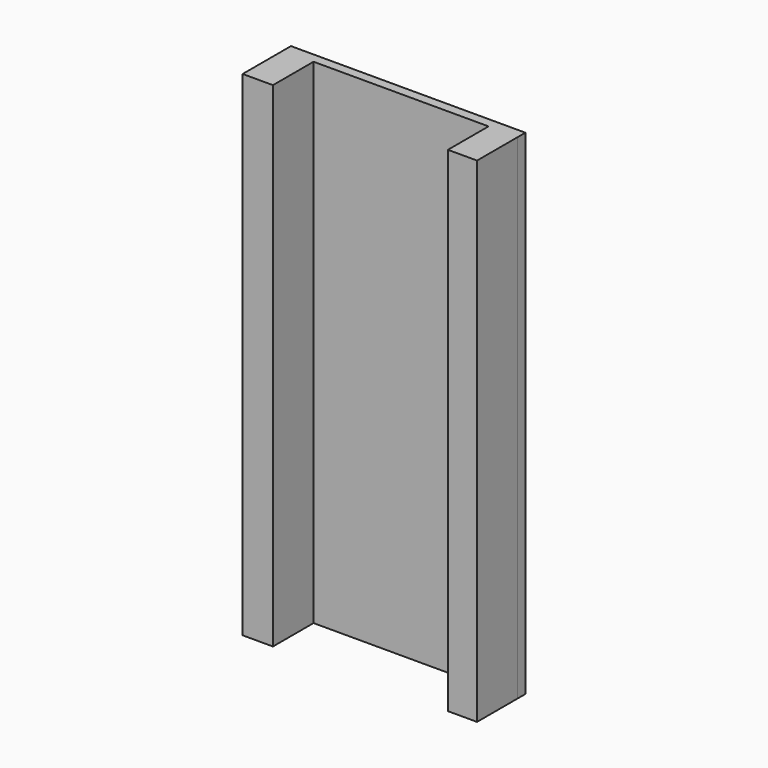
from build123d import *

# Parameters (mm, degrees)
F0_W     = 58.674
F0_H     = 123.698
F1_DEPTH = 2.413
F2_W     = 7.582456
F2_H     = 123.698
F2_W_2   = 7.290451
F3_DEPTH = 12.7


with BuildPart() as f1:
    # F0 (on Front) → F1 (new body)
    with BuildSketch(Plane.XZ):
        Rectangle(F0_W, F0_H)
    extrude(amount=F1_DEPTH)

    # F2 (on face) → F3 (join)
    with BuildSketch(Plane.XZ.offset(2.413)):
        with Locations((-25.545772, 0)):
            Rectangle(F2_W, F2_H)
        with Locations((25.691775, 0)):
            Rectangle(F2_W_2, F2_H)
    extrude(amount=F3_DEPTH)


solid = f1.part
